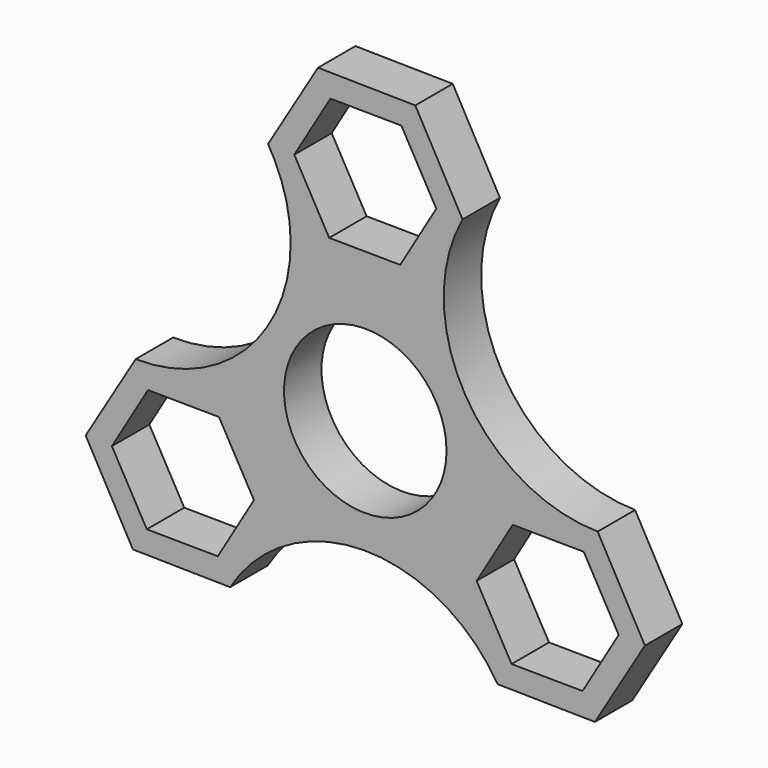
from build123d import *

# Parameters (mm, degrees)
F0_R     = 14.2875
F0_R_2   = 11.0236
F1_DEPTH = 25.4
F2_DEPTH = 19.05


with BuildPart() as f1:
    # F0 (on Front) → F1 (new body)
    with BuildSketch(Plane.XZ):
        with BuildLine():
            ThreePointArc((-12.3032136841, 27.182945853), (-12.7319888108, 27.9964141915), (-13.1964753143, 28.7900332028))
            Line((-13.1964753143, 28.7900332028), (-12.3032136841, 27.182945853))
        make_face()
        with BuildLine():
            Line((-6.4120134409, 40.110999464), (-13.1964753143, 28.7900332028))
            ThreePointArc((-13.1964753143, 28.7900332028), (-12.7319888108, 27.9964141915), (-12.3032136841, 27.182945853))
            Line((-12.3032136841, 27.182945853), (-6.7844618734, 17.2540337388))
            Line((-6.7844618734, 17.2540337388), (6.4120134409, 17.039000536))
            Line((6.4120134409, 17.039000536), (13.1964753143, 28.3599667972))
            Line((13.1964753143, 28.3599667972), (6.7844618734, 39.8959662612))
            Line((6.7844618734, 39.8959662612), (-6.4120134409, 40.110999464))
        make_face()
        Polygon((-4.7378237347, 36.9648986165), (4.8969534697, 36.8730250212), (9.6347772045, 28.4831264046), (4.7378237347, 20.1851013835), (-4.8969534697, 20.2769749788), (-9.6347772045, 28.6668735954), align=None, mode=Mode.SUBTRACT)
        with BuildLine():
            Line((-6.7844618734, 17.2540337388), (-12.3032136841, 27.182945853))
            ThreePointArc((-12.3032136841, 27.182945853), (-13.3099071581, 6.9113721119), (-31.158689354, -2.751500536))
            Line((-31.158689354, -2.751500536), (-17.9622140397, -2.9665337388))
            Line((-17.9622140397, -2.9665337388), (-11.5502005988, -14.5025332028))
            Line((-11.5502005988, -14.5025332028), (-18.3346624722, -25.823499464))
            ThreePointArc((-18.3346624722, -25.823499464), (-0.2467165373, -15.5050839103), (17.9622140397, -25.6084662612))
            Line((17.9622140397, -25.6084662612), (11.5502005988, -14.0724667972))
            Line((11.5502005988, -14.0724667972), (18.3346624722, -2.751500536))
            Line((18.3346624722, -2.751500536), (31.5311377866, -2.9665337388))
            ThreePointArc((31.5311377866, -2.9665337388), (13.5511548227, 7.5388791663), (13.1964753143, 28.3599667972))
            Line((13.1964753143, 28.3599667972), (6.4120134409, 17.039000536))
            Line((6.4120134409, 17.039000536), (-6.7844618734, 17.2540337388))
        make_face()
        Circle(F0_R, mode=Mode.SUBTRACT)
        Polygon((-17.9622140397, -2.9665337388), (-31.158689354, -2.751500536), (-37.9431512275, -14.0724667972), (-31.5311377866, -25.6084662612), (-18.3346624722, -25.823499464), (-11.5502005988, -14.5025332028), align=None)
        Polygon((-34.3814531176, -14.1956264046), (-29.4844996479, -5.8976013835), (-19.8497224434, -5.9894749788), (-15.1118987087, -14.3793735954), (-20.0088521784, -22.6773986165), (-29.6436293829, -22.5855250212), align=None, mode=Mode.SUBTRACT)
        Polygon((37.9431512275, -14.5025332028), (31.5311377866, -2.9665337388), (18.3346624722, -2.751500536), (11.5502005988, -14.0724667972), (17.9622140397, -25.6084662612), (31.158689354, -25.823499464), align=None)
        Polygon((29.4844996479, -22.6773986165), (19.8497224434, -22.5855250212), (15.1118987087, -14.1956264046), (20.0088521784, -5.8976013835), (29.6436293829, -5.9894749788), (34.3814531176, -14.3793735954), align=None, mode=Mode.SUBTRACT)
        Circle(F0_R)
        Circle(F0_R_2, mode=Mode.SUBTRACT)
    extrude(amount=F1_DEPTH)

    # F2 (cut): a face of the model
    f2_faces = [f1.faces().sort_by_distance(p)[0] for p in [
        (-11.8711635939, -25.4, 28.4748836018),
    ]]
    extrude(f2_faces, amount=-F2_DEPTH, mode=Mode.SUBTRACT)


solid = f1.part
